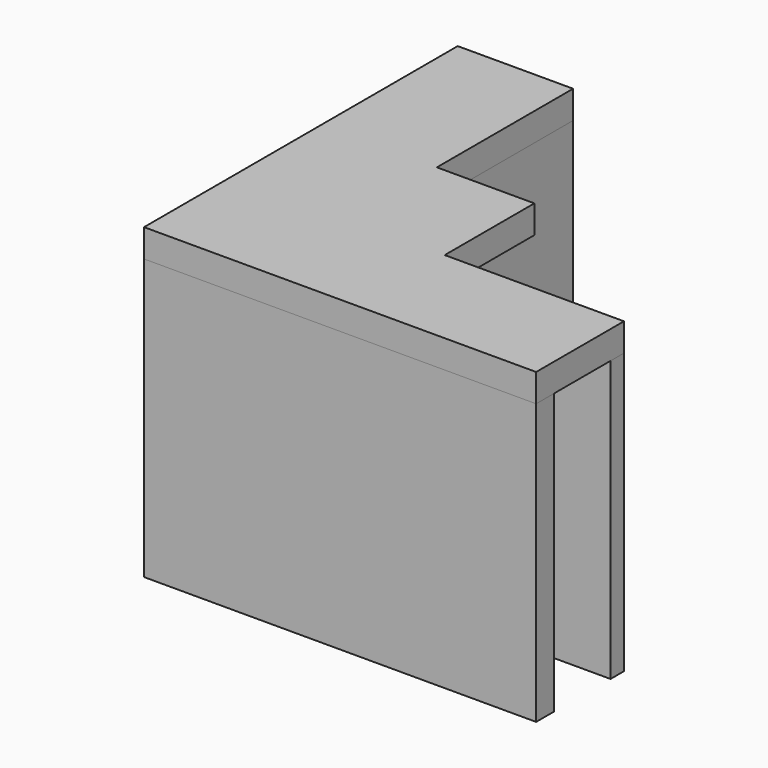
from build123d import *

# Parameters (mm, degrees)
F0_W     = 14.7
F0_H     = 1.5
F0_W_2   = 2
F0_H_2   = 15.2
F1_DEPTH = 25
F3_DEPTH = 2.5


with BuildPart() as f1:
    # F0 (on Top) → F1 (new body)
    with BuildSketch(Plane.XY):
        Polygon((-8.3, 25.2), (-10.3, 25.2), (-10.3, -9.8), (24.7, -9.8), (24.7, -7.8), (-8.3, -7.8), align=None)
        with Locations((17.35, -0.75)):
            Rectangle(F0_W, F0_H)
        with Locations((-1, 17.6)):
            Rectangle(F0_W_2, F0_H_2)
    extrude(amount=F1_DEPTH)


with BuildPart() as f3:
    # F2 (on face) → F3 (new body)
    with BuildSketch(Plane.XY.offset(25)):
        Polygon((0, 25.2), (-10.3, 25.2), (-10.3, -9.8), (24.7, -9.8), (24.7, 0), (8.7, 0), (8.7, 10), (0, 10), align=None)
    extrude(amount=F3_DEPTH)


solid = Compound([f1.part, f3.part])
